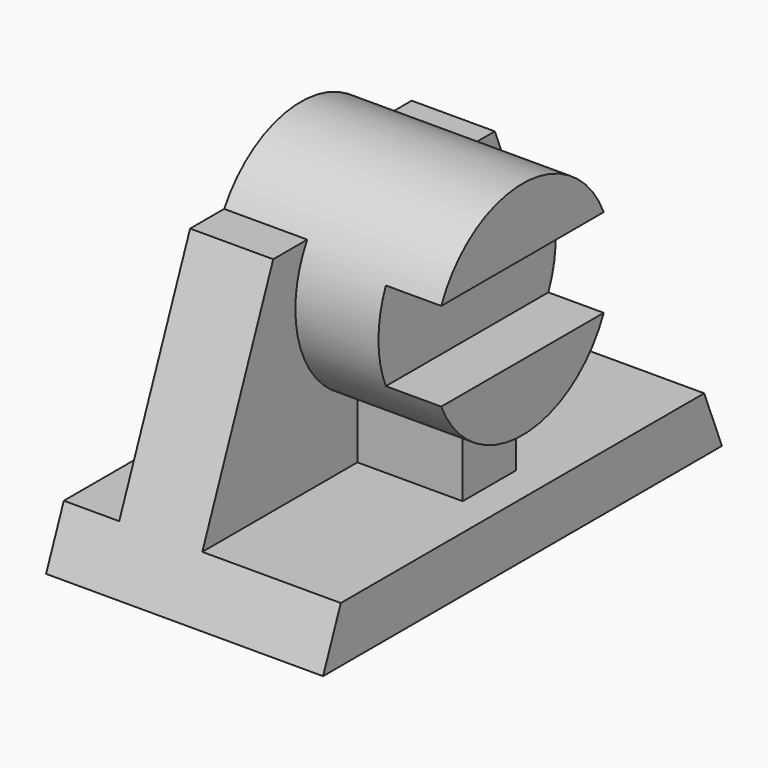
from build123d import *

# Parameters (mm, degrees)
F1_DEPTH      = 50
F2_W          = 25
F2_H          = 40
F2_W_2        = 10
F3_DEPTH      = 45.001
F3_DEPTH_BACK = 45.001
F4_R          = 20
F5_DEPTH      = 40
F6_W          = 12
F6_H          = 12
F7_DEPTH      = 19
F8_W          = 40
F8_H          = 16
F9_DEPTH      = 10


with BuildPart() as f1:
    # F0 (on Right) → F1 (new body)
    with BuildSketch(Plane.YZ):
        Polygon((-45, 0), (0, 0), (45, 0), (25, 50), (0, 50), (-25, 50), align=None)
    extrude(amount=-F1_DEPTH)

    # F2 (on Front) → F3 (cut, two sides)
    with BuildSketch(Plane.XZ) as f3_sk:
        with Locations((-12.5, 30)):
            Rectangle(F2_W, F2_H)
        with Locations((-45, 30)):
            Rectangle(F2_W_2, F2_H)
    extrude(amount=-F3_DEPTH, mode=Mode.SUBTRACT)
    extrude(f3_sk.sketch, amount=F3_DEPTH_BACK, mode=Mode.SUBTRACT)

    # F4 (on face) → F5 (join)
    with BuildSketch(Plane(origin=(-40, 0, 0), x_dir=(0, -1, 0), z_dir=(-1, 0, 0))):
        with Locations((0, 40)):
            Circle(F4_R)
    extrude(amount=-F5_DEPTH)

    # F6 (on face) → F7 (join)
    with BuildSketch(Plane.YZ.offset(-25)):
        with Locations((0, 16)):
            Rectangle(F6_W, F6_H)
    extrude(amount=F7_DEPTH)

    # F8 (on face) → F9 (cut)
    with BuildSketch(Plane.YZ):
        with Locations((0, 40)):
            Rectangle(F8_W, F8_H)
    extrude(amount=-F9_DEPTH, mode=Mode.SUBTRACT)


solid = f1.part
